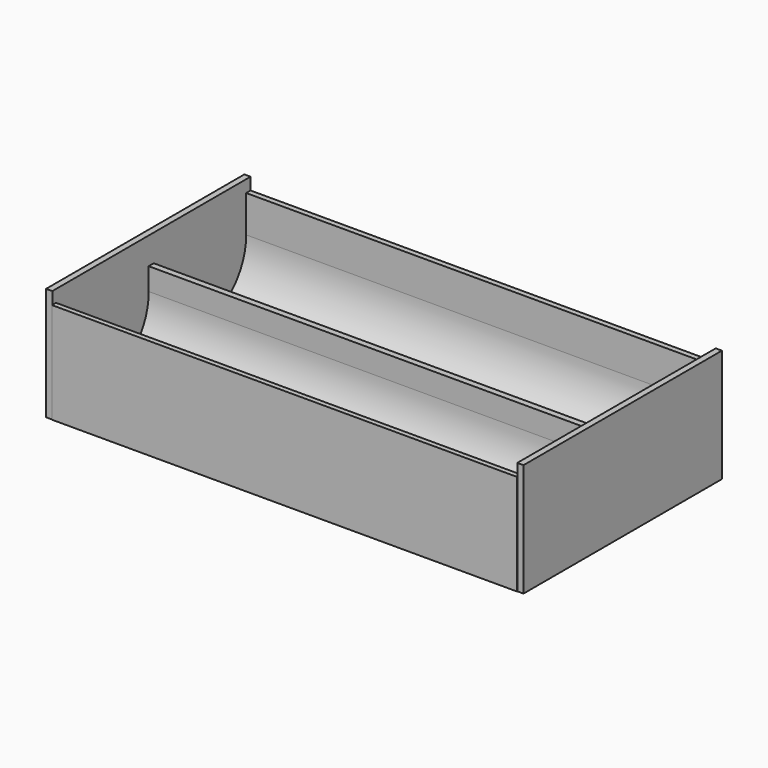
from build123d import *

# Parameters (mm, degrees)
F0_W     = 40
F0_H     = 18.241094
F1_DEPTH = 1
F3_DEPTH = 75
F5_DEPTH = 1


with BuildPart() as f1:
    # F0 (on Right) → F1 (new body)
    with BuildSketch(Plane.YZ):
        with Locations((1.416398, 9.120547)):
            Rectangle(F0_W, F0_H)
    extrude(amount=F1_DEPTH)

    # F2 (on Right) → F3 (join)
    with BuildSketch(Plane.YZ):
        with BuildLine():
            Line((-18.647401, 0), (21.388335, 0))
            Line((21.388335, 0), (21.388335, 16.275622))
            Line((21.388335, 16.275622), (20.506265, 16.275622))
            Line((20.506265, 16.275622), (20.506265, 10.329797))
            ThreePointArc((20.506265, 10.329797), (11.217281, 1.01272), (1.872196, 10.273525))
            Line((1.872196, 10.273525), (1.850361, 13.888834))
            Line((1.850361, 13.888834), (0.837944, 13.88272))
            Line((0.837944, 13.88272), (0.859742, 10.273525))
            ThreePointArc((0.859742, 10.273525), (-8.638272, 0.863686), (-17.842658, 10.560934))
            Line((-17.842658, 10.560934), (-17.842658, 16.275622))
            Line((-17.842658, 16.275622), (-18.647401, 16.275622))
            Line((-18.647401, 16.275622), (-18.647401, 0))
        make_face()
    extrude(amount=-F3_DEPTH)

    # F4 (on face) → F5 (join)
    with BuildSketch(Plane(origin=(-75, 0, 0), x_dir=(0, -1, 0), z_dir=(-1, 0, 0))):
        with BuildLine():
            Line((18.586515, 0), (18.586515, 16.275622))
            Line((18.586515, 16.275622), (17.842658, 16.275622))
            Line((17.842658, 16.275622), (17.842658, 10.560934))
            ThreePointArc((17.842658, 10.560934), (8.638272, 0.863686), (-0.859742, 10.273525))
            Line((-0.859742, 10.273525), (-0.837944, 13.88272))
            Line((-0.837944, 13.88272), (-1.850361, 13.888834))
            Line((-1.850361, 13.888834), (-1.872196, 10.273525))
            ThreePointArc((-1.872196, 10.273525), (-11.217281, 1.01272), (-20.506265, 10.329797))
            Line((-20.506265, 10.329797), (-20.506265, 16.275622))
            Line((-20.506265, 16.275622), (-21.388335, 16.275622))
            Line((-21.388335, 16.275622), (-21.388335, 0))
            Line((-21.388335, 0), (18.586515, 0))
        make_face()
        with BuildLine():
            Line((18.586515, 16.275622), (18.586515, 18.236505))
            Line((18.586515, 18.236505), (-21.388335, 18.236505))
            Line((-21.388335, 18.236505), (-21.388335, 16.275622))
            Line((-21.388335, 16.275622), (-20.506265, 16.275622))
            Line((-20.506265, 16.275622), (-20.506265, 10.329797))
            ThreePointArc((-20.506265, 10.329797), (-11.217281, 1.01272), (-1.872196, 10.273525))
            Line((-1.872196, 10.273525), (-1.850361, 13.888834))
            Line((-1.850361, 13.888834), (-0.837944, 13.88272))
            Line((-0.837944, 13.88272), (-0.859742, 10.273525))
            ThreePointArc((-0.859742, 10.273525), (8.638272, 0.863686), (17.842658, 10.560934))
            Line((17.842658, 10.560934), (17.842658, 16.275622))
            Line((17.842658, 16.275622), (18.586515, 16.275622))
        make_face()
    extrude(amount=F5_DEPTH)


solid = f1.part
